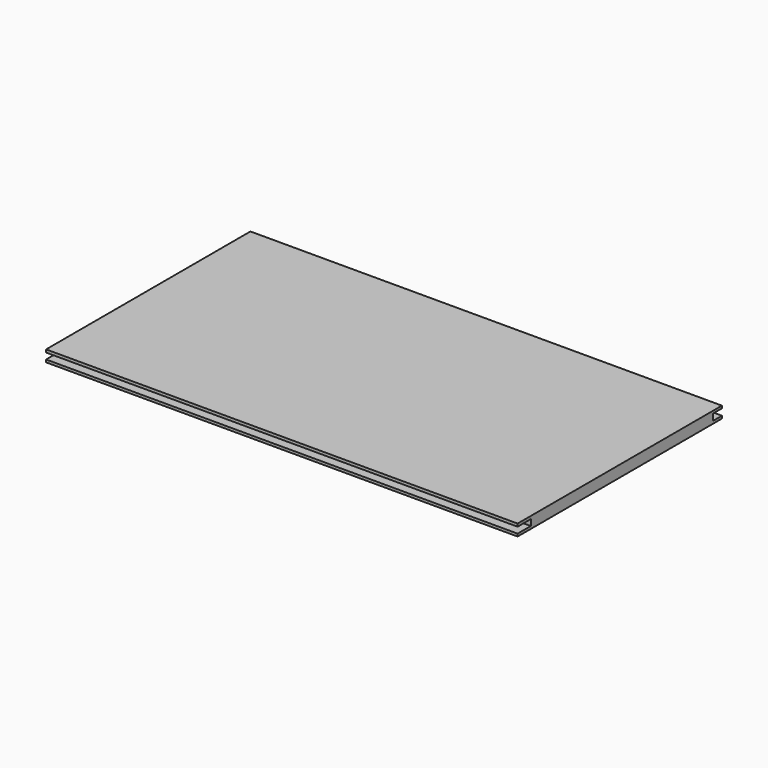
from build123d import *

# Parameters (mm, degrees)
F0_W     = 152.4
F0_H     = 82.55
F1_DEPTH = 3.7
F2_W     = 3.649952
F2_H     = 2.0856
F2_W_2   = 5.340369
F2_H_2   = 1.972865
F3_DEPTH = 167.386


with BuildPart() as f1:
    # F0 (on Top) → F1 (new body)
    with BuildSketch(Plane.XY):
        Rectangle(F0_W, F0_H)
    extrude(amount=F1_DEPTH)

    # F2 (on face) → F3 (cut)
    with BuildSketch(Plane(origin=(-76.2, 0, 0), x_dir=(0, -1, 0), z_dir=(-1, 0, 0))):
        with Locations((-39.450024, 1.872185)):
            Rectangle(F2_W, F2_H)
        with Locations((38.604816, 1.815817)):
            Rectangle(F2_W_2, F2_H_2)
    extrude(amount=-F3_DEPTH, mode=Mode.SUBTRACT)


solid = f1.part
